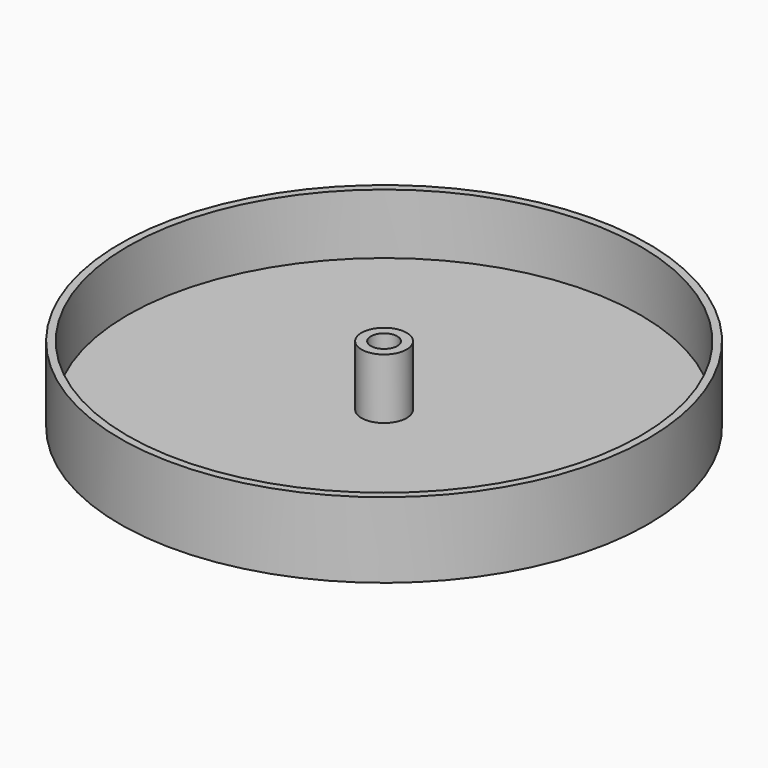
from build123d import *

# Parameters (mm, degrees)
F0_R     = 35
F1_DEPTH = 10
F2_R     = 34
F3_DEPTH = 8
F4_R     = 3
F5_DEPTH = 8
F7_D     = 3.5


with BuildPart() as f1:
    # F0 (on Top) → F1 (new body)
    with BuildSketch(Plane.XY):
        Circle(F0_R)
    extrude(amount=F1_DEPTH)

    # F2 (on face) → F3 (cut)
    with BuildSketch(Plane.XY.offset(10)):
        Circle(F2_R)
    extrude(amount=-F3_DEPTH, mode=Mode.SUBTRACT)

    # F4 (on face) → F5 (join)
    with BuildSketch(Plane.XY.offset(2)):
        Circle(F4_R)
    extrude(amount=F5_DEPTH)

    # F7 (through all)
    with Locations(Plane.XY.offset(10)):
        with Locations((0, 0)):
            Hole(F7_D / 2)


solid = f1.part
